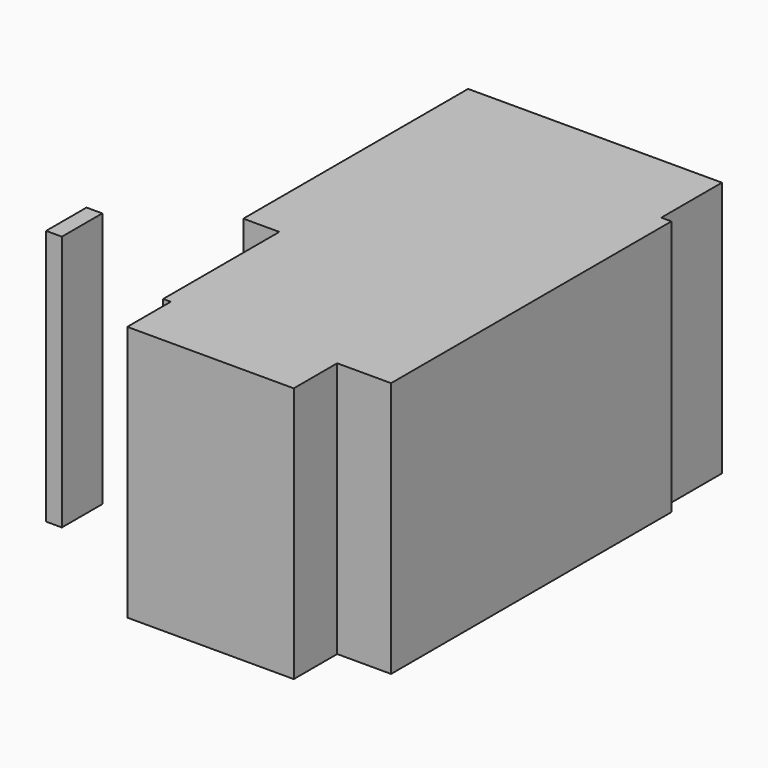
from build123d import *

# Parameters (mm, degrees)
F0_W     = 39.5441129804
F0_H     = 12.8982663155
F0_W_2   = 51.7430305481
F0_H_2   = 48.7434417009
F1_DEPTH = 60.8098581433
F0_W_3   = 3.7494897842
F0_H_3   = 11.998385191


with BuildPart() as f1:
    # F0 (on Top) → F1 (new body)
    with BuildSketch(Plane.XY):
        Polygon((35.3952497244, -12.7482712269), (-16.3477808237, -12.7482712269), (-16.3477808237, -47.2436398268), (-14.5480334759, -47.2436398268), (24.9960795045, -47.2436398268), (37.794932723, -47.2436398268), (37.794932723, 35.9951704741), (35.3952497244, 35.9951704741), align=None)
        with Locations((5.2240230143, -53.6927729845)):
            Rectangle(F0_W, F0_H)
        Polygon((-24.8966366053, 53.9927482605), (-24.8966366053, -12.7482712269), (-16.3477808237, -12.7482712269), (-16.3477808237, 35.9951704741), (35.3952497244, 35.9951704741), (35.3952497244, 53.9927482605), align=None)
        with Locations((9.5237344503, 11.6234496236)):
            Rectangle(F0_W_2, F0_H_2)
    extrude(amount=F1_DEPTH)


with BuildPart() as f1b:
    # F0 (on Top) → F1, piece 2 (new body)
    with BuildSketch(Plane.XY):
        with Locations((-48.5184639692, -33.4454923868)):
            Rectangle(F0_W_3, F0_H_3)
    extrude(amount=F1_DEPTH)


solid = Compound([f1.part, f1b.part])
